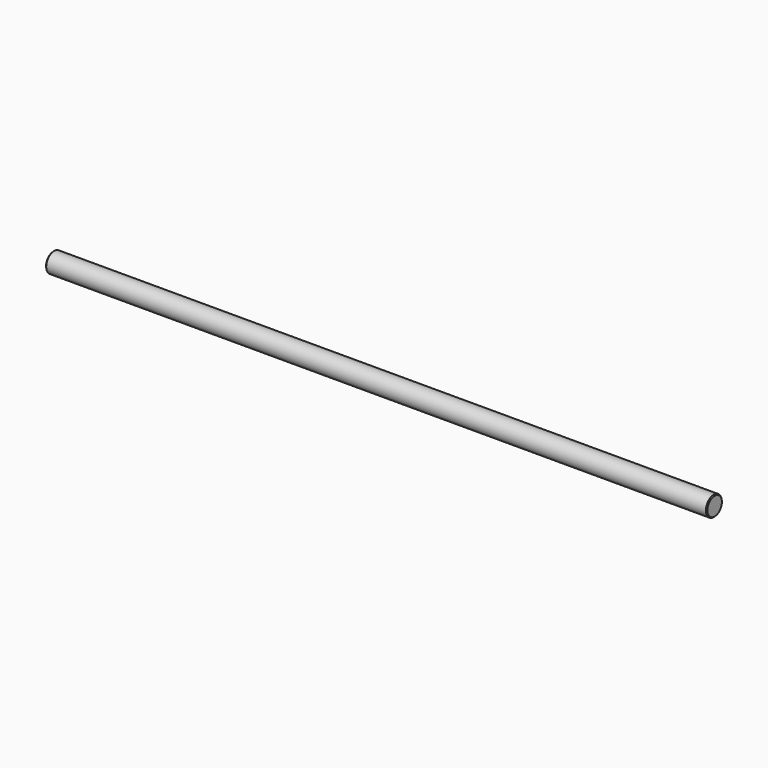
from build123d import *

# Parameters (mm, degrees)
SKETCH_R     = 6
PAD_DEPTH    = 200
CHAMFER_SIZE = 0.5


with BuildPart() as part:
    # Sketch → Pad (new body, symmetric)
    with BuildSketch(Plane.YZ):
        Circle(SKETCH_R)
    extrude(amount=PAD_DEPTH, both=True)

    # Chamfer
    chamfer_edges = [part.edges().sort_by_distance(p)[0] for p in [
        (200, -6, 0),
        (-200, -6, 0),
    ]]
    chamfer(chamfer_edges, length=CHAMFER_SIZE)


solid = part.part
